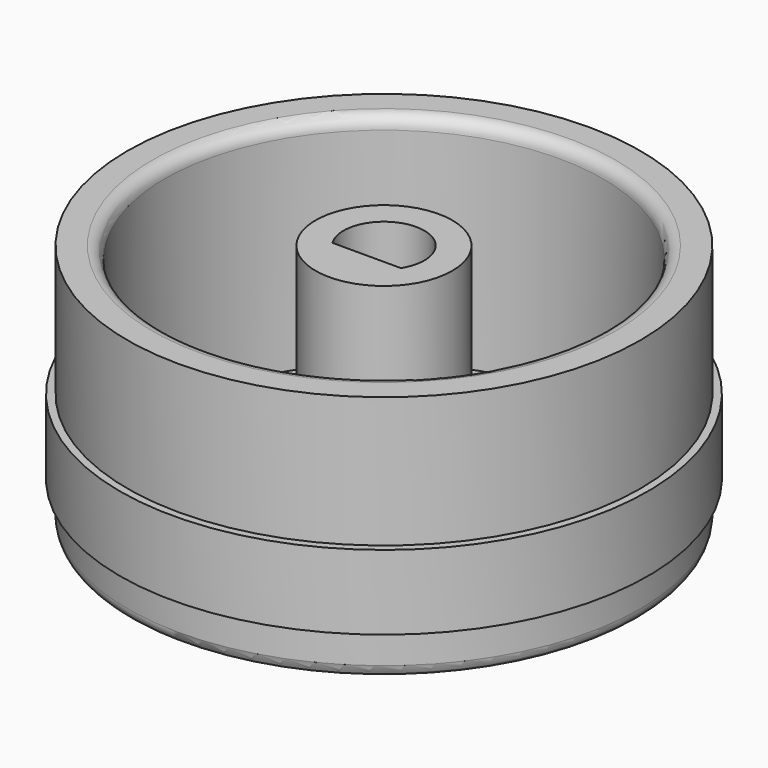
from build123d import *

# Parameters (mm, degrees)
F0_R     = 10.4775
F1_DEPTH = 1.27
F2_R     = 10.4775
F2_R_2   = 8.9535
F2_R_3   = 2.794
F3_DEPTH = 8.89
F4_W     = 0.3048
F4_H     = 3.048
F6_R     = 0.508


with BuildPart() as f1:
    # F0 (on Top) → F1 (new body)
    with BuildSketch(Plane.XY):
        Circle(F0_R)
    extrude(amount=F1_DEPTH)

    # F2 (on face) → F3 (join)
    with BuildSketch(Plane.XY.offset(1.27)):
        Circle(F2_R)
        Circle(F2_R_2, mode=Mode.SUBTRACT)
        Circle(F2_R_3)
        with BuildLine():
            ThreePointArc((-1.397, -0.879882), (0, 1.651), (1.397, -0.879882))
            Line((1.397, -0.879882), (-1.397, -0.879882))
        make_face(mode=Mode.SUBTRACT)
    extrude(amount=F3_DEPTH)

    # F4 (on Right) → F5 (revolve)
    with BuildSketch(Plane.YZ):
        with Locations((10.629893, 3.302)):
            Rectangle(F4_W, F4_H)
    revolve(axis=Axis((0, 0, 0), (0, 0, -1)))

    # F6
    f6_edges = [f1.edges().sort_by_distance(p)[0] for p in [
        (-10.4775, 0, 0),
        (-8.9535, 0, 10.16),
    ]]
    fillet(f6_edges, radius=F6_R)


solid = f1.part
